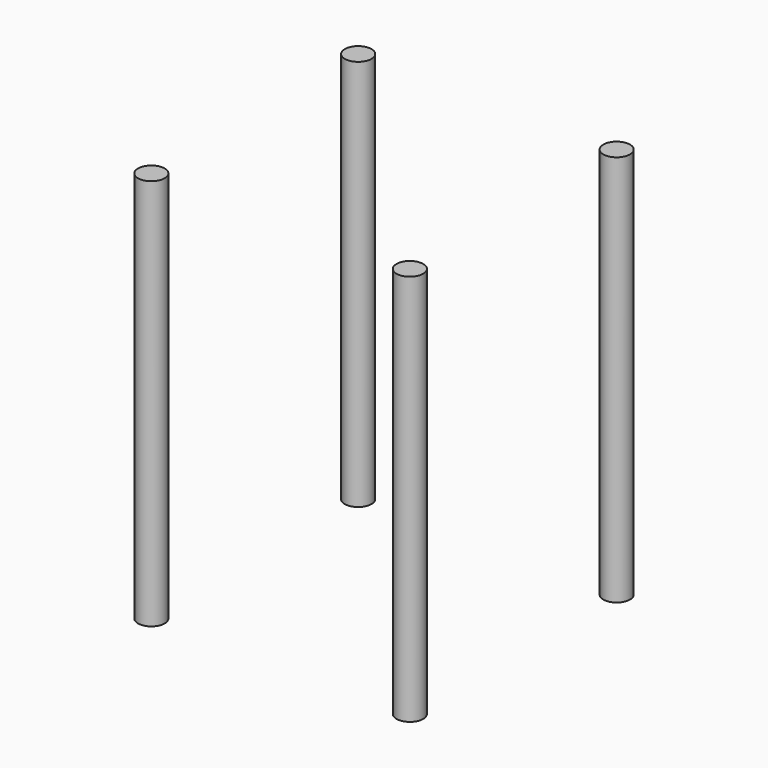
from build123d import *

# Parameters (mm, degrees)
CYLINDER018_R     = 1.6
CYLINDER018_DEPTH = 47
CYLINDER019_R     = 1.6
CYLINDER019_DEPTH = 47
CYLINDER016_R     = 1.6
CYLINDER016_DEPTH = 47
CYLINDER017_R     = 1.6
CYLINDER017_DEPTH = 47


with BuildPart() as cylinder018:
    # Cylinder018 → Cylinder018 (new body)
    with BuildSketch(Plane(origin=(10.5, 109.5, 4), x_dir=(1, 0, 0), z_dir=(0, 0, 1))):
        Circle(CYLINDER018_R)
    extrude(amount=CYLINDER018_DEPTH)


with BuildPart() as cylinder019:
    # Cylinder019 → Cylinder019 (new body)
    with BuildSketch(Plane(origin=(10.5, 140.5, 4), x_dir=(1, 0, 0), z_dir=(0, 0, 1))):
        Circle(CYLINDER019_R)
    extrude(amount=CYLINDER019_DEPTH)


with BuildPart() as cylinder016:
    # Cylinder016 → Cylinder016 (new body)
    with BuildSketch(Plane(origin=(41.5, 140.5, 4), x_dir=(1, 0, 0), z_dir=(0, 0, 1))):
        Circle(CYLINDER016_R)
    extrude(amount=CYLINDER016_DEPTH)


with BuildPart() as fusion020:
    # Cylinder017 → Cylinder017 (new body)
    with BuildSketch(Plane(origin=(41.5, 109.5, 4), x_dir=(1, 0, 0), z_dir=(0, 0, 1))):
        Circle(CYLINDER017_R)
    extrude(amount=CYLINDER017_DEPTH)

    # Fusion020: union Cylinder018, Cylinder019, Cylinder016
    add(cylinder018.part)
    add(cylinder019.part)
    add(cylinder016.part)


solid = fusion020.part
